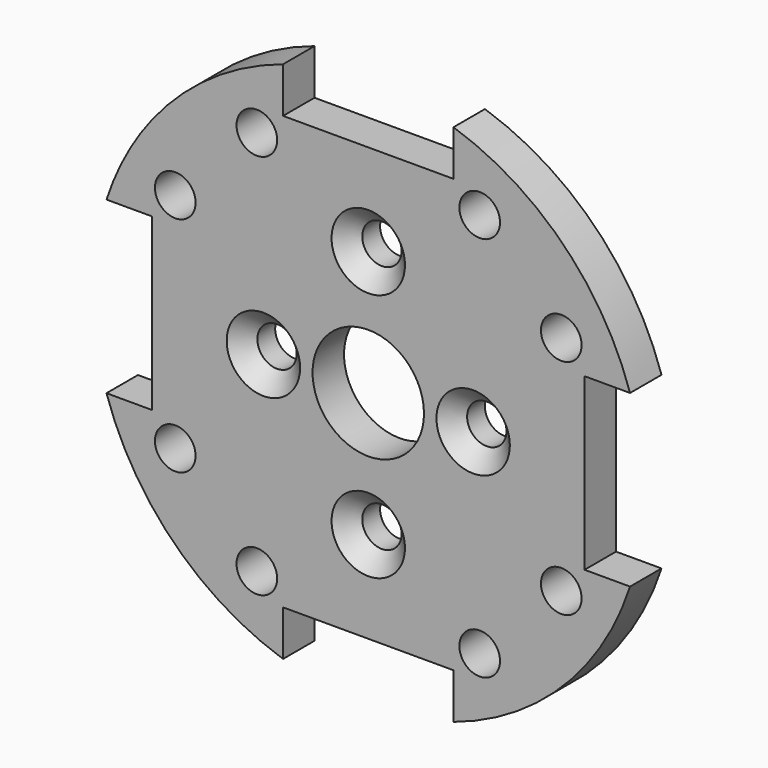
from build123d import *

# Parameters (mm, degrees)
F0_R     = 1.55
F0_R_2   = 1.5
F0_R_3   = 4.25
F1_DEPTH = 3
F2_SIZE  = 1.3


with BuildPart() as f1:
    # F0 (on Front) → F1 (new body)
    with BuildSketch(Plane.XZ):
        with BuildLine():
            Line((-16.5, -6.5), (-19.968726, -6.5))
            ThreePointArc((-19.968726, -6.5), (-14.849242, -14.849242), (-6.5, -19.968726))
            Line((-6.5, -19.968726), (-6.5, -16.5))
            Line((-6.5, -16.5), (0, -16.5))
            Line((0, -16.5), (6.5, -16.5))
            Line((6.5, -16.5), (6.5, -19.968726))
            ThreePointArc((6.5, -19.968726), (14.849242, -14.849242), (19.968726, -6.5))
            Line((19.968726, -6.5), (16.5, -6.5))
            Line((16.5, -6.5), (16.5, 0))
            Line((16.5, 0), (16.5, 6.5))
            Line((16.5, 6.5), (19.968726, 6.5))
            ThreePointArc((19.968726, 6.5), (14.849242, 14.849242), (6.5, 19.968726))
            Line((6.5, 19.968726), (6.5, 16.5))
            Line((6.5, 16.5), (0, 16.5))
            Line((0, 16.5), (-6.5, 16.5))
            Line((-6.5, 16.5), (-6.5, 19.968726))
            ThreePointArc((-6.5, 19.968726), (-12.017667, 17.221373), (-16.5, 12.990381))
            ThreePointArc((-16.5, 12.990381), (-18.520887, 9.898321), (-19.968726, 6.5))
            Line((-19.968726, 6.5), (-16.5, 6.5))
            Line((-16.5, 6.5), (-16.5, 0))
            Line((-16.5, 0), (-16.5, -6.5))
        make_face()
        with Locations((-8.5, -14.722432)):
            Circle(F0_R, mode=Mode.SUBTRACT)
        with Locations((-14.722432, -8.5)):
            Circle(F0_R, mode=Mode.SUBTRACT)
        with Locations((8.5, -14.722432)):
            Circle(F0_R, mode=Mode.SUBTRACT)
        with Locations((0, -9.5)):
            Circle(F0_R_2, mode=Mode.SUBTRACT)
        with Locations((14.722432, -8.5)):
            Circle(F0_R, mode=Mode.SUBTRACT)
        with Locations((-14.722432, 8.5)):
            Circle(F0_R, mode=Mode.SUBTRACT)
        with Locations((-8, 0)):
            Circle(F0_R_2, mode=Mode.SUBTRACT)
        with Locations((-8.5, 14.722432)):
            Circle(F0_R, mode=Mode.SUBTRACT)
        Circle(F0_R_3, mode=Mode.SUBTRACT)
        with Locations((8, 0)):
            Circle(F0_R_2, mode=Mode.SUBTRACT)
        with Locations((0, 9.5)):
            Circle(F0_R_2, mode=Mode.SUBTRACT)
        with Locations((14.722432, 8.5)):
            Circle(F0_R, mode=Mode.SUBTRACT)
        with Locations((8.5, 14.722432)):
            Circle(F0_R, mode=Mode.SUBTRACT)
    extrude(amount=F1_DEPTH)

    # F2
    f2_edges = [f1.edges().sort_by_distance(p)[0] for p in [
        (-1.5, -3, 9.5),
        (-9.5, -3, 0),
        (6.5, -3, 0),
        (-1.5, -3, -9.5),
    ]]
    chamfer(f2_edges, length=F2_SIZE)


solid = f1.part
